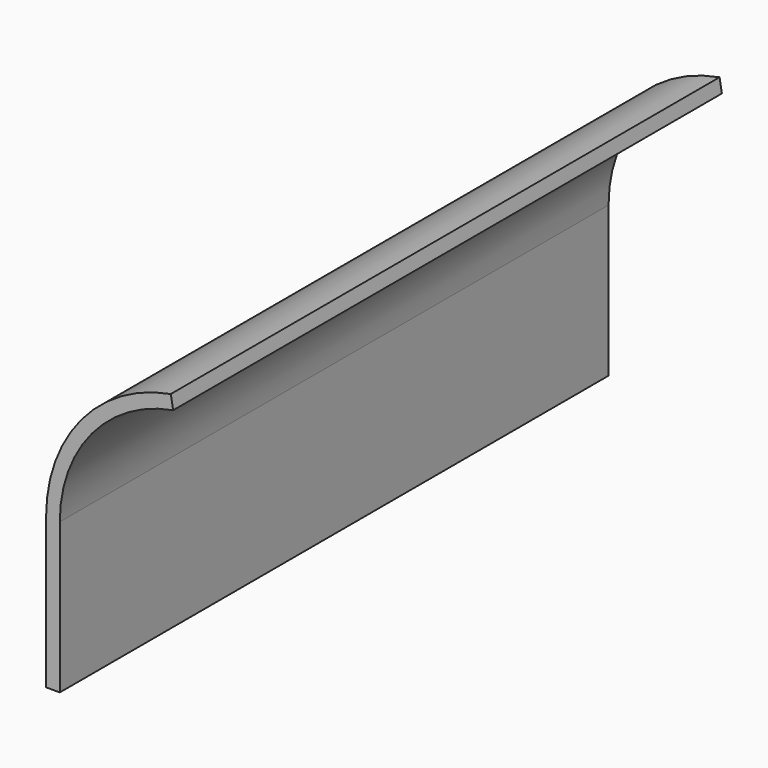
from build123d import *

# Parameters (mm, degrees)
F1_DEPTH = 100


with BuildPart() as f1:
    # F0 (on Front) → F1 (new body)
    with BuildSketch(Plane.XZ):
        with BuildLine():
            ThreePointArc((-20, 0), (-15.320889, 12.855752), (-3.472964, 19.696155))
            Line((-3.472964, 19.696155), (-3.82026, 21.665771))
            ThreePointArc((-3.82026, 21.665771), (-16.852978, 14.141327), (-22, 0))
            Line((-22, 0), (-22, -21.897534))
            Line((-22, -21.897534), (-20, -21.897534))
            Line((-20, -21.897534), (-20, 0))
        make_face()
    extrude(amount=F1_DEPTH)


solid = f1.part
